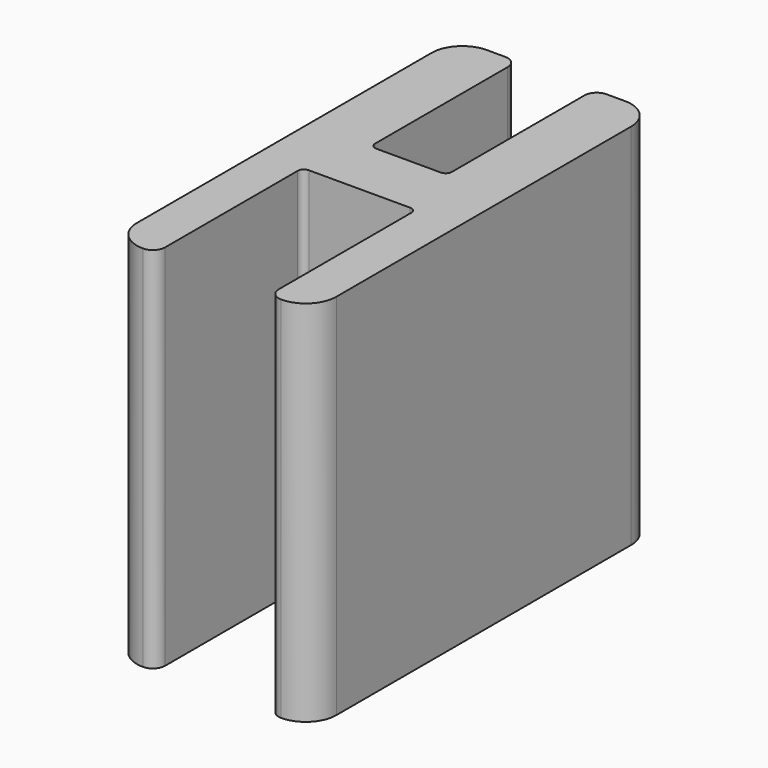
from build123d import *

# Parameters (mm, degrees)
F1_DEPTH = 60


with BuildPart() as f1:
    # F0 (on Top) → F1 (new body)
    with BuildSketch(Plane.XY):
        with BuildLine():
            Line((0, 65), (0, 5))
            ThreePointArc((0, 5), (1.464466, 1.464466), (5, 0))
            ThreePointArc((5, 0), (6.414214, 0.585786), (7, 2))
            Line((7, 2), (7, 29))
            ThreePointArc((7, 29), (7.292893, 29.707107), (8, 30))
            Line((8, 30), (24.5, 30))
            ThreePointArc((24.5, 30), (25.207107, 29.707107), (25.5, 29))
            Line((25.5, 29), (25.5, 2))
            ThreePointArc((25.5, 2), (26.085786, 0.585786), (27.5, 0))
            ThreePointArc((27.5, 0), (31.035534, 1.464466), (32.5, 5))
            Line((32.5, 5), (32.5, 65))
            ThreePointArc((32.5, 65), (31.035534, 68.535534), (27.5, 70))
            Line((27.5, 70), (24.5, 70))
            ThreePointArc((24.5, 70), (23.085786, 69.414214), (22.5, 68))
            Line((22.5, 68), (22.5, 41))
            ThreePointArc((22.5, 41), (22.207107, 40.292893), (21.5, 40))
            Line((21.5, 40), (11, 40))
            ThreePointArc((11, 40), (10.292893, 40.292893), (10, 41))
            Line((10, 41), (10, 68))
            ThreePointArc((10, 68), (9.414214, 69.414214), (8, 70))
            Line((8, 70), (5, 70))
            ThreePointArc((5, 70), (1.464466, 68.535534), (0, 65))
        make_face()
    extrude(amount=F1_DEPTH)


solid = f1.part
